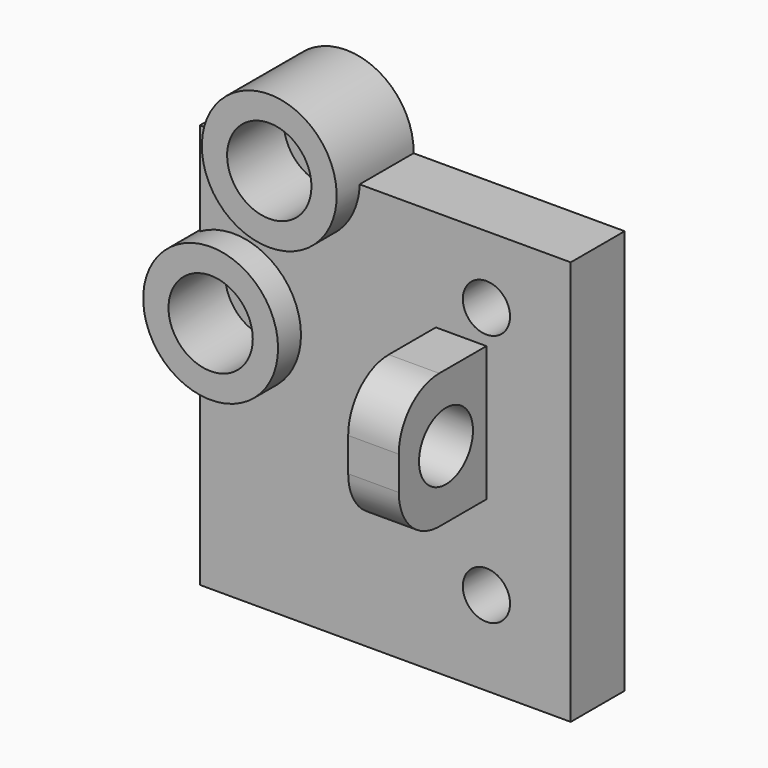
from build123d import *

# Parameters (mm, degrees)
CYLINDER267_R               = 2
CYLINDER267_DEPTH           = 10
CYLINDER267_PITCH_ANGLE     = 90
BOX001027045199_W           = 3
BOX001027045199_H           = 8
BOX001027045199_DEPTH       = 8
FILLET045_R                 = 3
CUT240_ROLL_ANGLE           = 90
CYLINDER257_R               = 2.5
CYLINDER257_DEPTH           = 30
CYLINDER257_ROLL_ANGLE      = 90
CYLINDER258_R               = 1.7
CYLINDER258_DEPTH           = 50
CYLINDER258_ROLL_ANGLE      = 90
CYLINDER262_R               = 1.7
CYLINDER262_DEPTH           = 30
CYLINDER262_ROLL_ANGLE      = 89.999963
CYLINDER262_PITCH_ANGLE     = 11.999988
CYLINDER262_PLACEMENT_ANGLE = -4e-06
CYLINDER259_R               = 2.5
CYLINDER259_DEPTH           = 20
CYLINDER259_ROLL_ANGLE      = 89.999963
CYLINDER259_PITCH_ANGLE     = 11.999988
CYLINDER259_PLACEMENT_ANGLE = -4e-06
CYLINDER231_R               = 1.4
CYLINDER231_DEPTH           = 20
CYLINDER231_ROLL_ANGLE      = 90
CYLINDER230_R               = 1.4
CYLINDER230_DEPTH           = 20
CYLINDER230_ROLL_ANGLE      = 90
BOX001027045174_W           = 22
BOX001027045174_H           = 4
BOX001027045174_DEPTH       = 24
CYLINDER260_R               = 4
CYLINDER260_DEPTH           = 5.7
CYLINDER260_ROLL_ANGLE      = 90
CYLINDER261_R               = 4
CYLINDER261_DEPTH           = 5.7
CYLINDER261_ROLL_ANGLE      = 90
CYLINDER261_PITCH_ANGLE     = 12


with BuildPart() as cylinder285:
    # Cylinder267 → Cylinder267 (new body)
    with BuildSketch(Plane.XY):
        Circle(CYLINDER267_R)
    extrude(amount=CYLINDER267_DEPTH)


with BuildPart() as cylinder285_1:
    # Cylinder267 pitch: moved
    add(cylinder285.part.rotate(Axis((0, 0, 0), (0, 1, 0)), CYLINDER267_PITCH_ANGLE))


with BuildPart() as cylinder285_2:
    # Cylinder267 placement: moved
    add(cylinder285_1.part.moved(Location((-3, 4, 4.5))))


with BuildPart() as cut240:
    # Box001027045199 → Box001027045199 (new body)
    with BuildSketch(Plane.XY):
        with Locations((1.5, 4)):
            Rectangle(BOX001027045199_W, BOX001027045199_H)
    extrude(amount=BOX001027045199_DEPTH)

    # Fillet045
    fillet045_edges = [cut240.edges().sort_by_distance(p)[0] for p in [
        (1.5, 0, 8),
        (1.5, 8, 8),
    ]]
    fillet(fillet045_edges, radius=FILLET045_R)

    # Cut240: cut Cylinder285
    add(cylinder285_2.part, mode=Mode.SUBTRACT)


with BuildPart() as cut240_1:
    # Cut240 roll: moved
    add(cut240.part.rotate(Axis((0, 0, 0), (1, 0, 0)), CUT240_ROLL_ANGLE))


with BuildPart() as cut240_2:
    # Cut240 placement: moved
    add(cut240_1.part.moved(Location((31, -7, -24))))


with BuildPart() as cylinder275:
    # Cylinder257 → Cylinder257 (new body)
    with BuildSketch(Plane.XY):
        Circle(CYLINDER257_R)
    extrude(amount=CYLINDER257_DEPTH)


with BuildPart() as cylinder275_1:
    # Cylinder257 roll: moved
    add(cylinder275.part.rotate(Axis((0, 0, 0), (1, 0, 0)), CYLINDER257_ROLL_ANGLE))


with BuildPart() as cylinder275_2:
    # Cylinder257 placement: moved
    add(cylinder275_1.part.moved(Location((23, 36, -19))))


with BuildPart() as fusion112142:
    # Cylinder258 → Cylinder258 (new body)
    with BuildSketch(Plane.XY):
        Circle(CYLINDER258_R)
    extrude(amount=CYLINDER258_DEPTH)


with BuildPart() as fusion112142_1:
    # Cylinder258 roll: moved
    add(fusion112142.part.rotate(Axis((0, 0, 0), (1, 0, 0)), CYLINDER258_ROLL_ANGLE))


with BuildPart() as fusion112142_2:
    # Cylinder258 placement: moved
    add(fusion112142_1.part.moved(Location((23, 18, -19))))

    # Fusion112142: union Cylinder275
    add(cylinder275_2.part)


with BuildPart() as part_mirroring016:
    # Part__Mirroring016: instance of Fusion112142
    add(fusion112142_2.part.mirror(Plane(origin=(0, 0, 0), x_dir=(1, 0, 0), z_dir=(0, 1, 0))))


with BuildPart() as part_mirroring016_1:
    # Part__Mirroring016 placement: moved
    add(part_mirroring016.part.moved(Location((-4, 0, 0))))


with BuildPart() as cylinder280:
    # Cylinder262 → Cylinder262 (new body)
    with BuildSketch(Plane.XY):
        Circle(CYLINDER262_R)
    extrude(amount=CYLINDER262_DEPTH)


with BuildPart() as cylinder280_1:
    # Cylinder262 roll: moved
    add(cylinder280.part.rotate(Axis((0, 0, 0), (1, 0, 0)), CYLINDER262_ROLL_ANGLE))


with BuildPart() as cylinder280_2:
    # Cylinder262 pitch: moved
    add(cylinder280_1.part.rotate(Axis((0, 0, 0), (0, 1, 0)), CYLINDER262_PITCH_ANGLE))


with BuildPart() as cylinder280_3:
    # Cylinder262 placement: moved
    add(cylinder280_2.part.moved(Location((22.4783, 12.2, -9.9062))).rotate(Axis((22.4783, 12.2, -9.9062), (0, 0, 1)), CYLINDER262_PLACEMENT_ANGLE))


with BuildPart() as fusion112149:
    # Cylinder259 → Cylinder259 (new body)
    with BuildSketch(Plane.XY):
        Circle(CYLINDER259_R)
    extrude(amount=CYLINDER259_DEPTH)


with BuildPart() as fusion112149_1:
    # Cylinder259 roll: moved
    add(fusion112149.part.rotate(Axis((0, 0, 0), (1, 0, 0)), CYLINDER259_ROLL_ANGLE))


with BuildPart() as fusion112149_2:
    # Cylinder259 pitch: moved
    add(fusion112149_1.part.rotate(Axis((0, 0, 0), (0, 1, 0)), CYLINDER259_PITCH_ANGLE))


with BuildPart() as fusion112149_3:
    # Cylinder259 placement: moved
    add(fusion112149_2.part.moved(Location((22.4783, -6, -9.9062))).rotate(Axis((22.4783, -6, -9.9062), (0, 0, 1)), CYLINDER259_PLACEMENT_ANGLE))

    # Fusion112146: union Cylinder280
    add(cylinder280_3.part)

    # Fusion112149: union Part__Mirroring016
    add(part_mirroring016_1.part)


with BuildPart() as m3_tap006:
    # Cylinder231 → Cylinder231 (new body)
    with BuildSketch(Plane.XY):
        Circle(CYLINDER231_R)
    extrude(amount=CYLINDER231_DEPTH)


with BuildPart() as m3_tap006_1:
    # Cylinder231 roll: moved
    add(m3_tap006.part.rotate(Axis((0, 0, 0), (1, 0, 0)), CYLINDER231_ROLL_ANGLE))


with BuildPart() as m3_tap006_2:
    # Cylinder231 placement: moved
    add(m3_tap006_1.part.moved(Location((34, 5, -29))))


with BuildPart() as fusion112123:
    # Cylinder230 → Cylinder230 (new body)
    with BuildSketch(Plane.XY):
        Circle(CYLINDER230_R)
    extrude(amount=CYLINDER230_DEPTH)


with BuildPart() as fusion112123_1:
    # Cylinder230 roll: moved
    add(fusion112123.part.rotate(Axis((0, 0, 0), (1, 0, 0)), CYLINDER230_ROLL_ANGLE))


with BuildPart() as fusion112123_2:
    # Cylinder230 placement: moved
    add(fusion112123_1.part.moved(Location((34, 5, -14))))

    # Fusion112123: union M3-tap006
    add(m3_tap006_2.part)


with BuildPart() as cut234:
    # Box001027045174 → Box001027045174 (new body)
    with BuildSketch(Plane(origin=(17, -8.5, -34), x_dir=(1, 0, 0), z_dir=(0, 0, 1))):
        with Locations((11, 2)):
            Rectangle(BOX001027045174_W, BOX001027045174_H)
    extrude(amount=BOX001027045174_DEPTH)

    # Cut234: cut Fusion112123
    add(fusion112123_2.part, mode=Mode.SUBTRACT)


with BuildPart() as cylinder278:
    # Cylinder260 → Cylinder260 (new body)
    with BuildSketch(Plane.XY):
        Circle(CYLINDER260_R)
    extrude(amount=CYLINDER260_DEPTH)


with BuildPart() as cylinder278_1:
    # Cylinder260 roll: moved
    add(cylinder278.part.rotate(Axis((0, 0, 0), (1, 0, 0)), CYLINDER260_ROLL_ANGLE))


with BuildPart() as cylinder278_2:
    # Cylinder260 placement: moved
    add(cylinder278_1.part.moved(Location((19, 10.2, -19))))


with BuildPart() as part_mirroring017:
    # Part__Mirroring017: instance of Cylinder278
    add(cylinder278_2.part.mirror(Plane(origin=(0, 0, 0), x_dir=(1, 0, 0), z_dir=(0, 1, 0))))


with BuildPart() as cylinder279:
    # Cylinder261 → Cylinder261 (new body)
    with BuildSketch(Plane.XY):
        Circle(CYLINDER261_R)
    extrude(amount=CYLINDER261_DEPTH)


with BuildPart() as cylinder279_1:
    # Cylinder261 roll: moved
    add(cylinder279.part.rotate(Axis((0, 0, 0), (1, 0, 0)), CYLINDER261_ROLL_ANGLE))


with BuildPart() as cylinder279_2:
    # Cylinder261 pitch: moved
    add(cylinder279_1.part.rotate(Axis((0, 0, 0), (0, 1, 0)), CYLINDER261_PITCH_ANGLE))


with BuildPart() as cylinder279_3:
    # Cylinder261 placement: moved
    add(cylinder279_2.part.moved(Location((22.478298, 10.2, -9.906203))))


with BuildPart() as clamp_plate:
    # Part__Mirroring018: instance of Cylinder279
    add(cylinder279_3.part.mirror(Plane(origin=(0, 0, 0), x_dir=(1, 0, 0), z_dir=(0, 1, 0))))

    # Fusion112144: union Part__Mirroring017
    add(part_mirroring017.part)

    # Fusion112145: union Cut234
    add(cut234.part)

    # Cut236: cut Fusion112149
    add(fusion112149_3.part, mode=Mode.SUBTRACT)

    # Fusion112155: union Cut240
    add(cut240_2.part)


solid = clamp_plate.part
